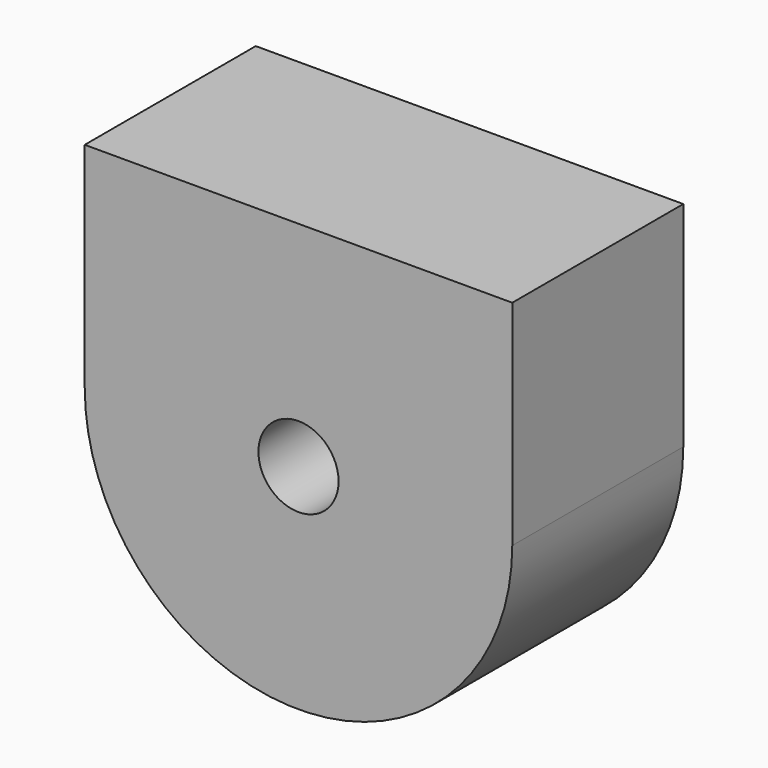
from build123d import *

# Parameters (mm, degrees)
F0_R     = 4.7625
F1_DEPTH = 25.4


with BuildPart() as f1:
    # F0 (on Front) → F1 (new body)
    with BuildSketch(Plane.XZ):
        with BuildLine():
            ThreePointArc((-72.612513, 23.634593), (-47.212513, -1.765407), (-21.812513, 23.634593))
            Line((-21.812513, 23.634593), (-21.812513, 49.034593))
            Line((-21.812513, 49.034593), (-72.612513, 49.034593))
            Line((-72.612513, 49.034593), (-72.612513, 23.634593))
        make_face()
        with Locations((-47.212513, 23.634593)):
            Circle(F0_R, mode=Mode.SUBTRACT)
    extrude(amount=F1_DEPTH)


solid = f1.part
